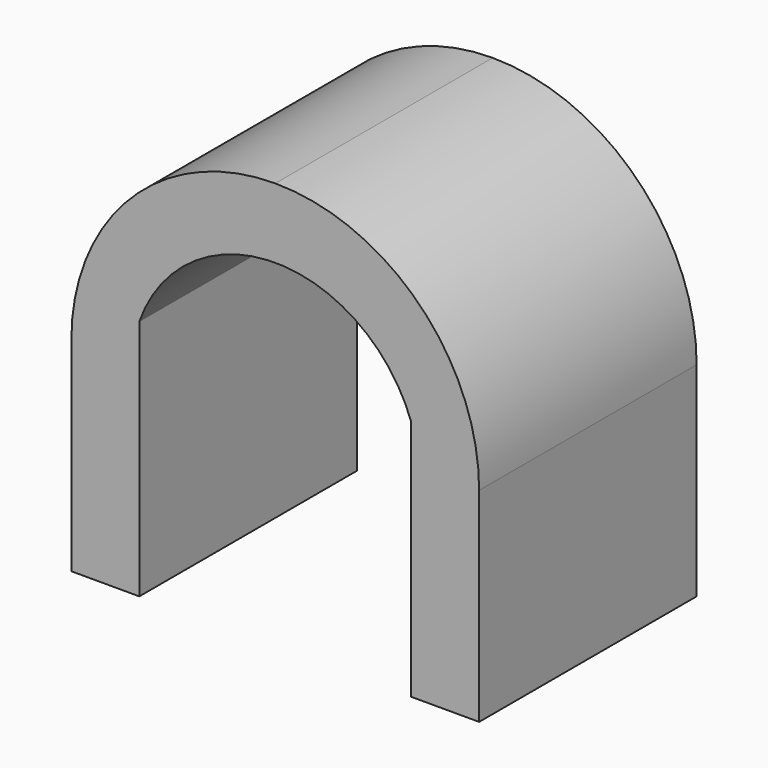
from build123d import *

# Parameters (mm, degrees)
F1_DEPTH = 25.4
F2_DEPTH = 25.4
F3_DEPTH = 25.4


with BuildPart() as f1:
    # F0 (on Front) → F1 (new body)
    with BuildSketch(Plane.XZ):
        with BuildLine():
            ThreePointArc((-4.7244, 0), (-18.194785, -5.579616), (-23.7744, -19.05))
            Line((-23.7744, -19.05), (-23.7744, -38.1))
            Line((-23.7744, -38.1), (-17.4244, -38.1))
            Line((-17.4244, -38.1), (-17.4244, -24.509516))
            ThreePointArc((-17.4244, -24.509516), (-18.201369, -19.999674), (-17.4244, -15.489832))
            Line((-17.4244, -15.489832), (-17.4244, -6.35))
            Line((-17.4244, -6.35), (7.9756, -6.35))
            Line((7.9756, -6.35), (7.9756, -15.489832))
            ThreePointArc((7.9756, -15.489832), (8.752568, -19.999674), (7.9756, -24.509516))
            Line((7.9756, -24.509516), (7.9756, -38.1))
            Line((7.9756, -38.1), (14.3256, -38.1))
            Line((14.3256, -38.1), (14.3256, -19.05))
            ThreePointArc((14.3256, -19.05), (8.745984, -5.579616), (-4.7244, 0))
        make_face()
    extrude(amount=F1_DEPTH)

    # F0 (on Front) → F2 (join)
    with BuildSketch(Plane.XZ):
        with BuildLine():
            ThreePointArc((-4.7244, 0), (-18.194785, -5.579616), (-23.7744, -19.05))
            Line((-23.7744, -19.05), (-23.7744, -38.1))
            Line((-23.7744, -38.1), (-17.4244, -38.1))
            Line((-17.4244, -38.1), (-17.4244, -24.509516))
            ThreePointArc((-17.4244, -24.509516), (-18.201369, -19.999674), (-17.4244, -15.489832))
            Line((-17.4244, -15.489832), (-17.4244, -6.35))
            Line((-17.4244, -6.35), (7.9756, -6.35))
            Line((7.9756, -6.35), (7.9756, -15.489832))
            ThreePointArc((7.9756, -15.489832), (8.752568, -19.999674), (7.9756, -24.509516))
            Line((7.9756, -24.509516), (7.9756, -38.1))
            Line((7.9756, -38.1), (14.3256, -38.1))
            Line((14.3256, -38.1), (14.3256, -19.05))
            ThreePointArc((14.3256, -19.05), (8.745984, -5.579616), (-4.7244, 0))
        make_face()
        with BuildLine():
            ThreePointArc((-17.4244, -15.489832), (-18.201369, -19.999674), (-17.4244, -24.509516))
            Line((-17.4244, -24.509516), (-17.4244, -15.489832))
        make_face()
        with BuildLine():
            Line((-17.4244, -6.35), (-17.4244, -15.489832))
            ThreePointArc((-17.4244, -15.489832), (-4.7244, -6.522705), (7.9756, -15.489832))
            Line((7.9756, -15.489832), (7.9756, -6.35))
            Line((7.9756, -6.35), (-17.4244, -6.35))
        make_face()
        with BuildLine():
            ThreePointArc((7.9756, -24.509516), (8.752568, -19.999674), (7.9756, -15.489832))
            Line((7.9756, -15.489832), (7.9756, -24.509516))
        make_face()
    extrude(amount=F2_DEPTH)

    # F0 (on Front) → F3 (join)
    with BuildSketch(Plane.XZ):
        with BuildLine():
            ThreePointArc((-4.7244, 0), (-18.194785, -5.579616), (-23.7744, -19.05))
            Line((-23.7744, -19.05), (-23.7744, -38.1))
            Line((-23.7744, -38.1), (-17.4244, -38.1))
            Line((-17.4244, -38.1), (-17.4244, -24.509516))
            ThreePointArc((-17.4244, -24.509516), (-18.201369, -19.999674), (-17.4244, -15.489832))
            Line((-17.4244, -15.489832), (-17.4244, -6.35))
            Line((-17.4244, -6.35), (7.9756, -6.35))
            Line((7.9756, -6.35), (7.9756, -15.489832))
            ThreePointArc((7.9756, -15.489832), (8.752568, -19.999674), (7.9756, -24.509516))
            Line((7.9756, -24.509516), (7.9756, -38.1))
            Line((7.9756, -38.1), (14.3256, -38.1))
            Line((14.3256, -38.1), (14.3256, -19.05))
            ThreePointArc((14.3256, -19.05), (8.745984, -5.579616), (-4.7244, 0))
        make_face()
        with BuildLine():
            ThreePointArc((-17.4244, -15.489832), (-18.201369, -19.999674), (-17.4244, -24.509516))
            Line((-17.4244, -24.509516), (-17.4244, -15.489832))
        make_face()
        with BuildLine():
            Line((-17.4244, -6.35), (-17.4244, -15.489832))
            ThreePointArc((-17.4244, -15.489832), (-4.7244, -6.522705), (7.9756, -15.489832))
            Line((7.9756, -15.489832), (7.9756, -6.35))
            Line((7.9756, -6.35), (-17.4244, -6.35))
        make_face()
        with BuildLine():
            ThreePointArc((7.9756, -24.509516), (8.752568, -19.999674), (7.9756, -15.489832))
            Line((7.9756, -15.489832), (7.9756, -24.509516))
        make_face()
    extrude(amount=F3_DEPTH)


solid = f1.part
